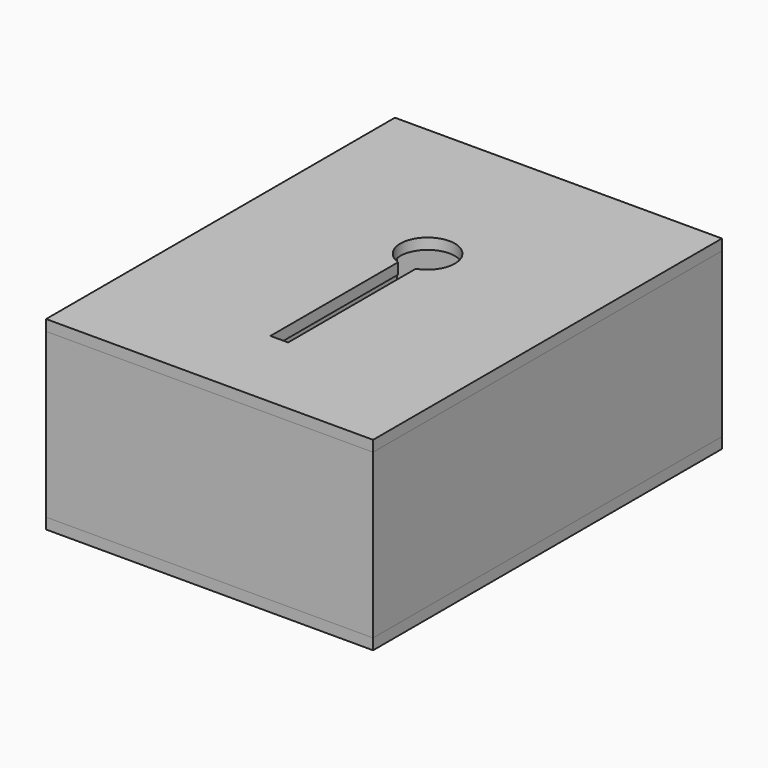
from build123d import *

# Parameters (mm, degrees)
SKETCH_W      = 60
SKETCH_H      = 80
SKETCH_R      = 5
PAD_DEPTH     = 2
SKETCH001_W   = 60
SKETCH001_H   = 80
SKETCH001_W_2 = 56
SKETCH001_H_2 = 76
PAD001_DEPTH  = 30
SKETCH002_W   = 60
SKETCH002_H   = 80
PAD002_DEPTH  = 2


with BuildPart() as back_plate:
    # Sketch → Pad (new body)
    with BuildSketch(Plane.XY):
        Rectangle(SKETCH_W, SKETCH_H)
        with Locations((0, 10)):
            Circle(SKETCH_R, mode=Mode.SUBTRACT)
    extrude(amount=PAD_DEPTH)


with BuildPart() as sides:
    # Sketch001 → Pad001 (new body)
    with BuildSketch(Plane.XY.offset(2)):
        Rectangle(SKETCH001_W, SKETCH001_H)
        Rectangle(SKETCH001_W_2, SKETCH001_H_2, mode=Mode.SUBTRACT)
    extrude(amount=PAD001_DEPTH)


with BuildPart() as front_plate:
    # Sketch002 → Pad002 (new body)
    with BuildSketch(Plane.XY.offset(32)):
        Rectangle(SKETCH002_W, SKETCH002_H)
        with BuildLine():
            ThreePointArc((1.623618, 5.270955), (0, 15), (-1.623618, 5.270955))
            Line((-1.623618, -24.016518), (-1.623618, 5.270955))
            Line((1.623618, -24.016518), (-1.623618, -24.016518))
            Line((1.623618, 5.270955), (1.623618, -24.016518))
        make_face(mode=Mode.SUBTRACT)
    extrude(amount=PAD002_DEPTH)


solid = Compound([back_plate.part, sides.part, front_plate.part])
